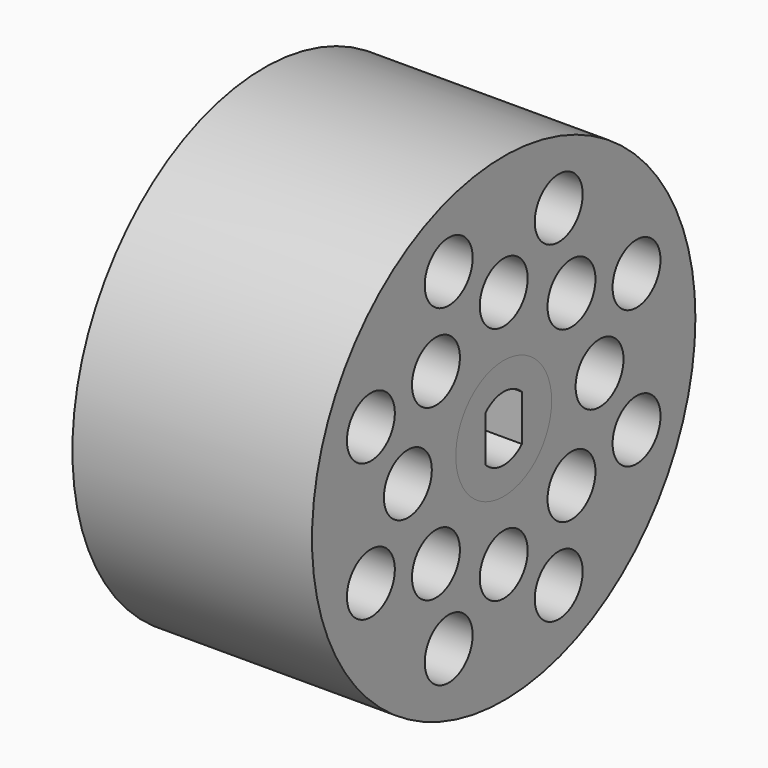
from build123d import *

# Parameters (mm, degrees)
F0_R     = 5
F1_DEPTH = 20
F0_R_2   = 20
F0_R_3   = 2.5
F2_DEPTH = 20


with BuildPart() as f1:
    # F0 (on Right) → F1 (new body)
    with BuildSketch(Plane.YZ):
        Circle(F0_R)
        with BuildLine():
            ThreePointArc((1.9, -1.918333), (0, -2.7), (-1.9, -1.918333))
            Line((-1.9, -1.918333), (-1.9, 1.918333))
            ThreePointArc((-1.9, 1.918333), (0, 2.7), (1.9, 1.918333))
            Line((1.9, 1.918333), (1.9, -1.918333))
        make_face(mode=Mode.SUBTRACT)
    extrude(amount=F1_DEPTH)


with BuildPart() as f2:
    # F0 (on Right) → F2 (new body, through all)
    with BuildSketch(Plane.YZ):
        Circle(F0_R_2)
        with Locations((-5.740251, -13.858193)):
            Circle(F0_R_3, mode=Mode.SUBTRACT)
        with Locations((-13.858193, -5.740251)):
            Circle(F0_R_3, mode=Mode.SUBTRACT)
        with Locations((-7.071068, -7.071068)):
            Circle(F0_R_3, mode=Mode.SUBTRACT)
        with Locations((5.740251, -13.858193)):
            Circle(F0_R_3, mode=Mode.SUBTRACT)
        with Locations((0, -10)):
            Circle(F0_R_3, mode=Mode.SUBTRACT)
        with Locations((7.071068, -7.071068)):
            Circle(F0_R_3, mode=Mode.SUBTRACT)
        with Locations((13.858193, -5.740251)):
            Circle(F0_R_3, mode=Mode.SUBTRACT)
        with Locations((-13.858193, 5.740251)):
            Circle(F0_R_3, mode=Mode.SUBTRACT)
        with Locations((-10, 0)):
            Circle(F0_R_3, mode=Mode.SUBTRACT)
        with Locations((-7.071068, 7.071068)):
            Circle(F0_R_3, mode=Mode.SUBTRACT)
        with Locations((-5.740251, 13.858193)):
            Circle(F0_R_3, mode=Mode.SUBTRACT)
        Circle(F0_R, mode=Mode.SUBTRACT)
        with Locations((7.071068, 7.071068)):
            Circle(F0_R_3, mode=Mode.SUBTRACT)
        with Locations((10, 0)):
            Circle(F0_R_3, mode=Mode.SUBTRACT)
        with Locations((13.858193, 5.740251)):
            Circle(F0_R_3, mode=Mode.SUBTRACT)
        with Locations((0, 10)):
            Circle(F0_R_3, mode=Mode.SUBTRACT)
        with Locations((5.740251, 13.858193)):
            Circle(F0_R_3, mode=Mode.SUBTRACT)
    extrude(amount=F2_DEPTH)


solid = Compound([f1.part, f2.part])
